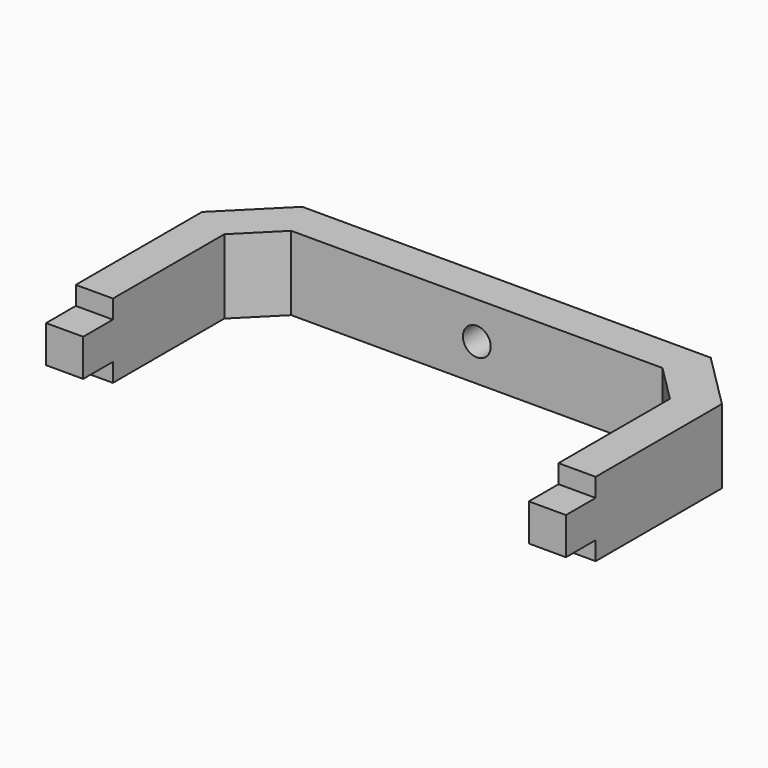
from build123d import *

# Parameters (mm, degrees)
F1_DEPTH = 8
F2_W     = 4
F2_H     = 2
F3_DEPTH = 4.2
F4_W     = 4
F4_H     = 2
F5_DEPTH = 4.1
F6_R     = 1.5
F7_DEPTH = 5


with BuildPart() as f1:
    # F0 (on Top) → F1 (new body)
    with BuildSketch(Plane.XY):
        Polygon((-28, 7.5), (-28, -13.5), (-24, -13.5), (-24, 5.5), (-20, 9.5), (20, 9.5), (24, 5.5), (24, -13.5), (28, -13.5), (28, 7.50455), (22, 13.5), (-22, 13.5), align=None)
    extrude(amount=F1_DEPTH)

    # F2 (on face) → F3 (cut)
    with BuildSketch(Plane.YZ.offset(28)):
        with Locations((-11.5, 7)):
            Rectangle(F2_W, F2_H)
        with Locations((-11.5, 1)):
            Rectangle(F2_W, F2_H)
    extrude(amount=-F3_DEPTH, mode=Mode.SUBTRACT)

    # F4 (on face) → F5 (cut)
    with BuildSketch(Plane(origin=(-28, 0, 0), x_dir=(0, -1, 0), z_dir=(-1, 0, 0))):
        with Locations((11.5, 1)):
            Rectangle(F4_W, F4_H)
        with Locations((11.5, 7)):
            Rectangle(F4_W, F4_H)
    extrude(amount=-F5_DEPTH, mode=Mode.SUBTRACT)

    # F6 (on face) → F7 (cut)
    with BuildSketch(Plane(origin=(0, 13.5, 0), x_dir=(-1, 0, 0), z_dir=(0, 1, 0))):
        with Locations((0, 4)):
            Circle(F6_R)
    extrude(amount=-F7_DEPTH, mode=Mode.SUBTRACT)


solid = f1.part
